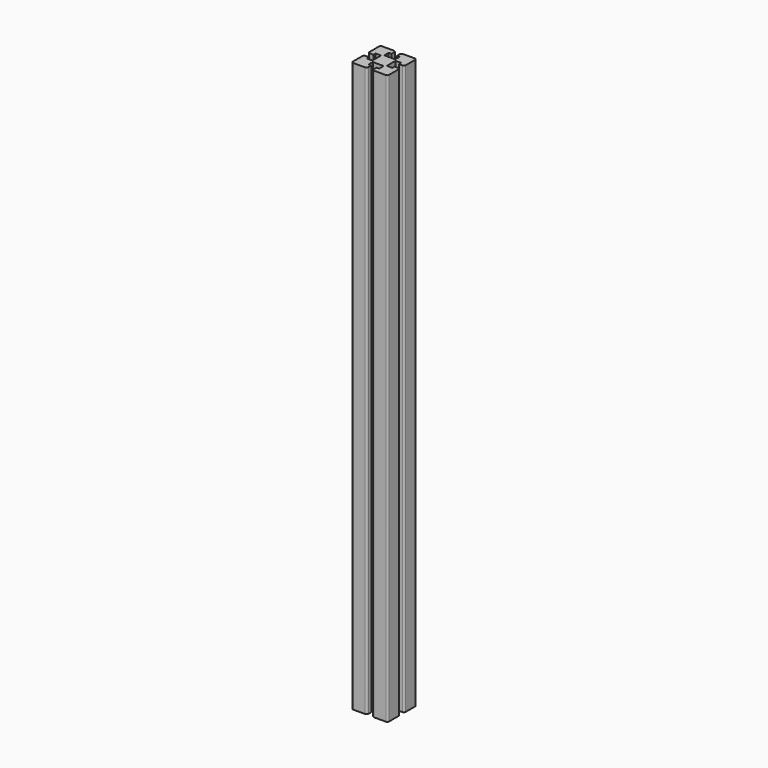
from build123d import *

# Parameters (mm, degrees)
F1_DEPTH = 630
F2_R     = 2


with BuildPart() as f1:
    # F0 (on Top) → F1 (new body)
    with BuildSketch(Plane.XY):
        Polygon((20, 3), (20, 20), (3, 20), (3, 14), (6, 14), (6, 8), (-6, 8), (-6, 14), (-3, 14), (-3, 20), (-20, 20), (-20, 3), (-14, 3), (-14, 6), (-8, 6), (-8, -6), (-14, -6), (-14, -3), (-20, -3), (-20, -20), (-3.00035, -20), (-2.908665, -14), (-6, -14), (-6, -8), (6, -8), (6, -14), (3.092036, -14), (3.00035, -20), (20, -20), (20, -3), (14, -3), (14, -6), (8, -6), (8, 6), (14, 6), (14, 3), align=None)
    extrude(amount=F1_DEPTH)

    # F2
    f2_edges = [f1.edges().sort_by_distance(p)[0] for p in [
        (20, 3, 315),
        (20, 20, 315),
        (20, -20, 315),
        (20, -3, 315),
        (-3.00035, -20, 315),
        (-3, 20, 315),
        (3, 20, 315),
        (-20, 20, 315),
        (-20, -3, 315),
        (-20, 3, 315),
        (-20, -20, 315),
        (3.00035, -20, 315),
    ]]
    fillet(f2_edges, radius=F2_R)


solid = f1.part
